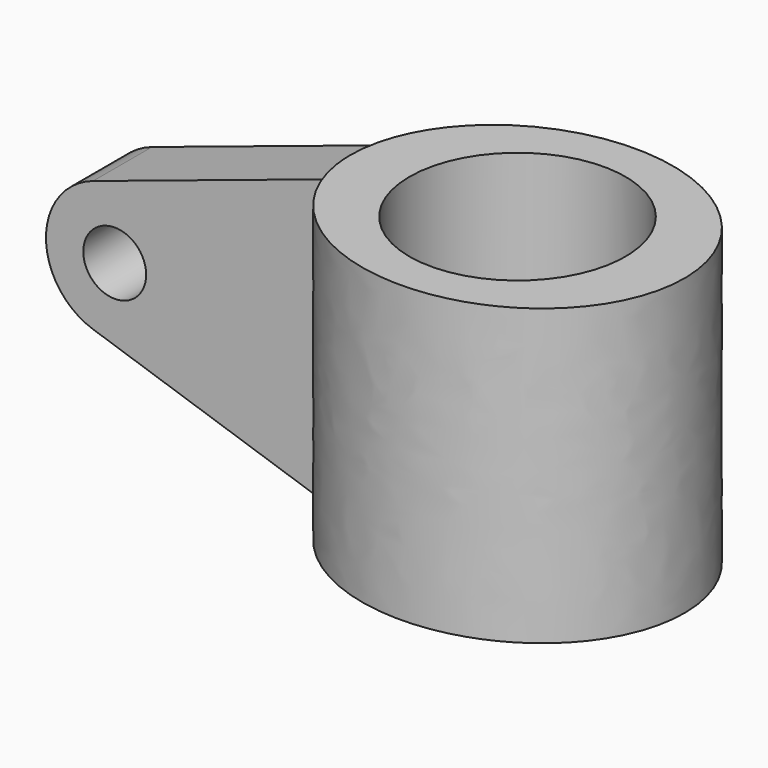
from build123d import *

# Parameters (mm, degrees)
CIRCLE_R                   = 11
EXTRUDE001_DEPTH           = 30
EXTRUDE001_PLACEMENT_ANGLE = 180
EXTRUDE_DEPTH              = 30
EXTRUDE_PLACEMENT_ANGLE    = 180
RECTANGLE001_W             = 30
RECTANGLE001_H             = 7.5
EXTRUDE003_DEPTH           = 30
SKETCH_R                   = 3.2
EXTRUDE002_DEPTH           = 15


with BuildPart() as extrude001:
    # Circle → Extrude001 (new body)
    with BuildSketch(Plane.XY):
        Circle(CIRCLE_R)
    extrude(amount=EXTRUDE001_DEPTH)


with BuildPart() as extrude001_1:
    # Extrude001 placement: moved
    add(extrude001.part.rotate(Axis((0, 0, 0), (0, 1, 0)), EXTRUDE001_PLACEMENT_ANGLE))


with BuildPart() as cut001:
    # Ellipse → Extrude (new body)
    with BuildSketch(Plane.XY):
        with BuildLine():
            add(Edge.make_bspline(
                [(17, 0), (17, 25.980762), (-8.5, 12.990381), (-34, 0), (-8.5, -12.990381), (17, -25.980762), (17, 0)],
                knots=[0, 0, 0, 2.094395, 2.094395, 4.18879, 4.18879, 6.283185, 6.283185, 6.283185], degree=2, weights=[1, 0.5, 1, 0.5, 1, 0.5, 1]))
        make_face()
    extrude(amount=EXTRUDE_DEPTH)


with BuildPart() as cut001_1:
    # Extrude placement: moved
    add(cut001.part.rotate(Axis((0, 0, 0), (0, 1, 0)), EXTRUDE_PLACEMENT_ANGLE))

    # Cut001: cut Extrude001
    add(extrude001_1.part, mode=Mode.SUBTRACT)


with BuildPart() as extrude003:
    # Rectangle001 → Extrude003 (new body)
    with BuildSketch(Plane(origin=(-30, -3.75, -15), x_dir=(1, 0, 0), z_dir=(0, 0, 1))):
        with Locations((15, 3.75)):
            Rectangle(RECTANGLE001_W, RECTANGLE001_H)
    extrude(amount=EXTRUDE003_DEPTH)


with BuildPart() as extrude003_1:
    # Extrude003 placement: moved
    add(extrude003.part.moved(Location((-15, 0, -15))))


with BuildPart() as body:
    # Sketch → Extrude002 (new body)
    with BuildSketch(Plane(origin=(-15, 0, -30), x_dir=(1, 0, 0), z_dir=(0, -1, 0))):
        with BuildLine():
            Line((-25.202842, 21.644358), (0, 30))
            Line((0, 30), (0, 0))
            Line((-25.202842, 8.355642), (0, 0))
            ThreePointArc((-25.202842, 21.644358), (-30, 15), (-25.202842, 8.355642))
        make_face()
        with Locations((-23, 15)):
            Circle(SKETCH_R, mode=Mode.SUBTRACT)
    extrude(amount=-EXTRUDE002_DEPTH)


with BuildPart() as body_1:
    # Extrude002 placement: moved
    add(body.part.moved(Location((0, -7.5, 0))))

    # Common: intersect Extrude003
    add(extrude003_1.part, mode=Mode.INTERSECT)

    # Fusion: union Cut001
    add(cut001_1.part)


solid = body_1.part
